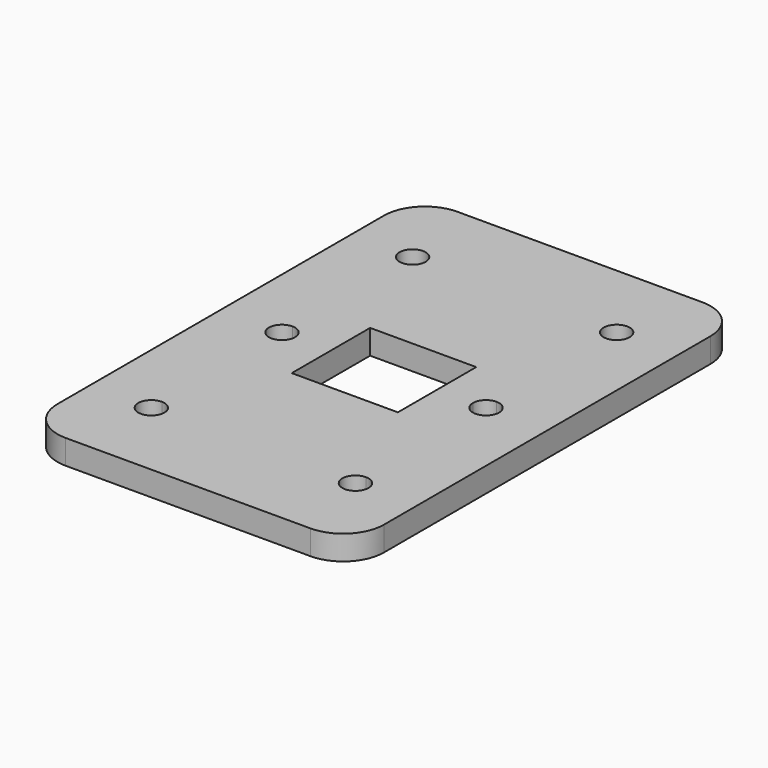
from build123d import *

# Parameters (mm, degrees)
F0_W     = 40
F0_H     = 60
F1_DEPTH = 3
F2_R     = 5


with BuildPart() as f1:
    # F0 (on Top) → F1 (new body)
    with BuildSketch(Plane.XY):
        Rectangle(F0_W, F0_H)
        with BuildLine():
            ThreePointArc((-10.9, -20), (-13.6313708499, -21.1313708499), (-12.5, -18.4))
            ThreePointArc((-12.5, -18.4), (-11.3686291501, -18.8686291501), (-10.9, -20))
        make_face(mode=Mode.SUBTRACT)
        with BuildLine():
            ThreePointArc((14.1, -20), (11.3686291501, -21.1313708499), (12.5, -18.4))
            ThreePointArc((12.5, -18.4), (13.6313708499, -18.8686291501), (14.1, -20))
        make_face(mode=Mode.SUBTRACT)
        with BuildLine():
            ThreePointArc((-12.5, 1.6), (-11.3686291501, 1.1313708499), (-10.9, 0))
            ThreePointArc((-10.9, 0), (-11.3686291501, -1.1313708499), (-12.5, -1.6))
            ThreePointArc((-12.5, -1.6), (-14.1, 0), (-12.5, 1.6))
        make_face(mode=Mode.SUBTRACT)
        with BuildLine():
            ThreePointArc((-10.9, 20), (-11.3686291501, 18.8686291501), (-12.5, 18.4))
            ThreePointArc((-12.5, 18.4), (-13.6313708499, 21.1313708499), (-10.9, 20))
        make_face(mode=Mode.SUBTRACT)
        Polygon((6.5, 6), (6.5, 0), (6.5, -6), (-6.5, -6), (-6.5, 0), (-6.5, 6), align=None, mode=Mode.SUBTRACT)
        with BuildLine():
            ThreePointArc((12.5, -1.6), (11.3686291501, -1.1313708499), (10.9, 0))
            ThreePointArc((10.9, 0), (11.3686291501, 1.1313708499), (12.5, 1.6))
            ThreePointArc((12.5, 1.6), (13.6313708499, 1.1313708499), (14.1, 0))
            ThreePointArc((14.1, 0), (13.6313708499, -1.1313708499), (12.5, -1.6))
        make_face(mode=Mode.SUBTRACT)
        with BuildLine():
            ThreePointArc((14.1, 20), (13.6313708499, 18.8686291501), (12.5, 18.4))
            ThreePointArc((12.5, 18.4), (11.3686291501, 21.1313708499), (14.1, 20))
        make_face(mode=Mode.SUBTRACT)
    extrude(amount=F1_DEPTH)

    # F2
    f2_edges = [f1.edges().sort_by_distance(p)[0] for p in [
        (20, -30, 1.5),
        (20, 30, 1.5),
        (-20, -30, 1.5),
        (-20, 30, 1.5),
    ]]
    fillet(f2_edges, radius=F2_R)


solid = f1.part
